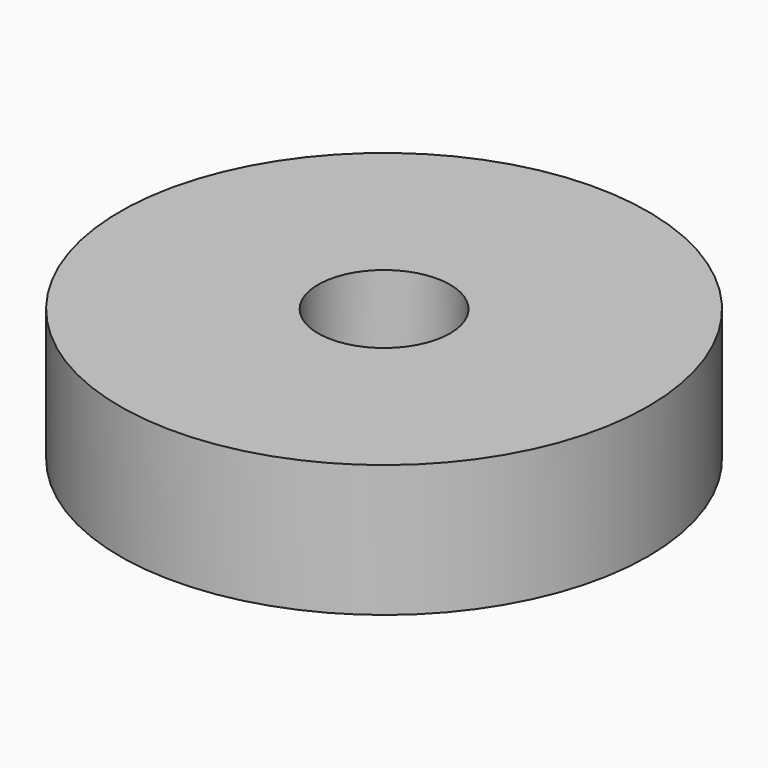
from build123d import *

# Parameters (mm, degrees)
F0_R     = 20
F0_R_2   = 5
F1_DEPTH = 10
F2_R     = 1.5
F3_DEPTH = 2


with BuildPart() as f1:
    # F0 (on Top) → F1 (new body)
    with BuildSketch(Plane.XY):
        Circle(F0_R)
        Circle(F0_R_2, mode=Mode.SUBTRACT)
    extrude(amount=F1_DEPTH)

    # F2 (on face) → F3 (cut)
    with BuildSketch(Plane(origin=(0, 0, 0), x_dir=(1, 0, 0), z_dir=(0, 0, -1))):
        with Locations((0, 15)):
            Circle(F2_R)
        with Locations((-12.990381, -7.5)):
            Circle(F2_R)
        with Locations((12.990381, -7.5)):
            Circle(F2_R)
    extrude(amount=-F3_DEPTH, mode=Mode.SUBTRACT)


solid = f1.part
